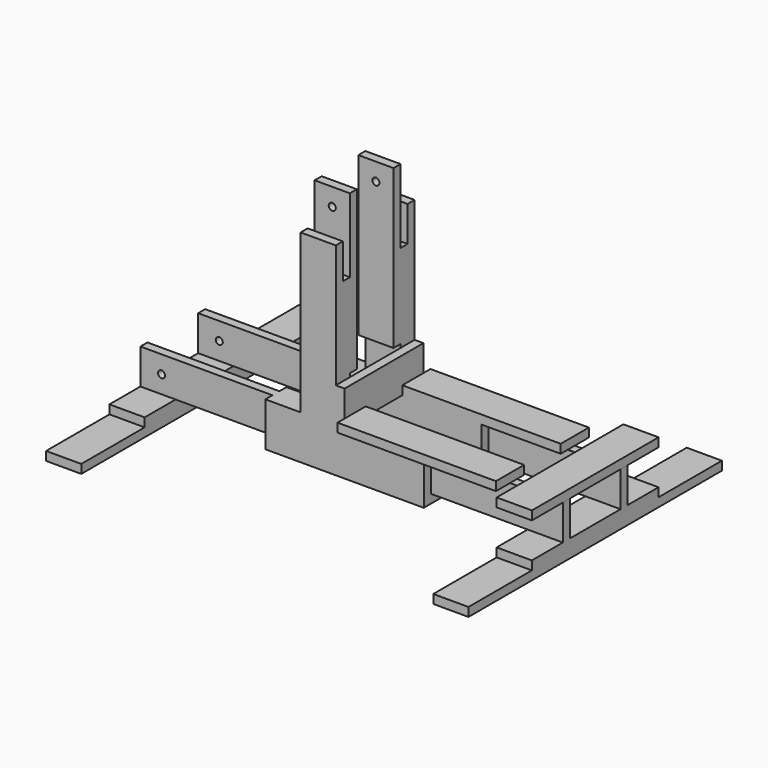
from build123d import *

# Parameters (mm, degrees)
F0_W      = 304.8
F0_H      = 25.4
F1_DEPTH  = 6.35
F2_W      = 114.3
F2_H      = 25.4
F3_DEPTH  = 6.35
F4_W      = 114.3
F4_H      = 25.4
F5_DEPTH  = 6.35
F7_D      = 5.08
F8_W      = 114.3
F8_H      = 19.05
F9_DEPTH  = 6.35
F10_W     = 25.4
F10_H     = 57.15
F11_DEPTH = 6.35
F12_W     = 25.4
F12_H     = 114.3
F13_DEPTH = 6.35
F14_W     = 25.4
F14_H     = 57.15
F15_DEPTH = 6.35
F16_W     = 25.4
F16_H     = 114.3
F17_DEPTH = 6.35
F18_W     = 25.4
F18_H     = 57.15
F19_DEPTH = 6.35
F20_W     = 6.35
F20_H     = 57.15
F21_DEPTH = 25.4
F22_W     = 114.3
F22_H     = 25.4
F23_DEPTH = 6.35
F24_W     = 25.4
F24_H     = 6.35
F25_DEPTH = 88.9
F26_W     = 25.4
F26_H     = 6.35
F27_DEPTH = 114.3
F28_W     = 25.4
F28_H     = 114.3
F29_DEPTH = 6.35
F31_D     = 5.08


with BuildPart() as f1:
    # F0 (on Front) → F1 (new body)
    with BuildSketch(Plane.XZ):
        with Locations((9.459311, -15.122586)):
            Rectangle(F0_W, F0_H)
    extrude(amount=F1_DEPTH)

    # F2 (on face) → F3 (join)
    with BuildSketch(Plane.XZ.offset(6.35)):
        with Locations((9.459311, -15.122586)):
            Rectangle(F2_W, F2_H)
    extrude(amount=F3_DEPTH)

    # F4 (on face) → F5 (join)
    with BuildSketch(Plane(origin=(0, 0, 0), x_dir=(-1, 0, 0), z_dir=(0, 1, 0))):
        with Locations((-9.459311, -15.122586)):
            Rectangle(F4_W, F4_H)
    extrude(amount=F5_DEPTH)

    # F7 (through all)
    with Locations(Plane.XZ.offset(6.35)):
        with Locations((-127.700689, -15.122586)):
            Hole(F7_D / 2)

    # F8 (on face) → F9 (join)
    with BuildSketch(Plane(origin=(0, 0, -27.822586), x_dir=(1, 0, 0), z_dir=(0, 0, -1))):
        with Locations((9.459311, 3.175)):
            Rectangle(F8_W, F8_H)
    extrude(amount=F9_DEPTH)

    # F10 (on face) → F11 (join)
    with BuildSketch(Plane(origin=(0, 0, -27.822586), x_dir=(1, 0, 0), z_dir=(0, 0, -1))):
        with Locations((-130.240689, 0.635)):
            Rectangle(F10_W, F10_H)
    extrude(amount=F11_DEPTH)

    # F12 (on face) → F13 (join)
    with BuildSketch(Plane(origin=(0, 0, -34.172586), x_dir=(1, 0, 0), z_dir=(0, 0, -1))):
        with Locations((-130.240689, -27.94)):
            Rectangle(F12_W, F12_H)
    extrude(amount=F13_DEPTH)

    # F14 (on face) → F15 (join)
    with BuildSketch(Plane(origin=(0, 0, -27.822586), x_dir=(1, 0, 0), z_dir=(0, 0, -1))):
        with Locations((149.159311, 0.635)):
            Rectangle(F14_W, F14_H)
    extrude(amount=F15_DEPTH)

    # F16 (on face) → F17 (join)
    with BuildSketch(Plane(origin=(0, 0, -34.172586), x_dir=(1, 0, 0), z_dir=(0, 0, -1))):
        with Locations((149.159311, -27.94)):
            Rectangle(F16_W, F16_H)
    extrude(amount=F17_DEPTH)

    # F18 (on face) → F19 (join)
    with BuildSketch(Plane.XY.offset(-2.422586)):
        with Locations((149.190135, -0.635)):
            Rectangle(F18_W, F18_H)
    extrude(amount=F19_DEPTH)

    # F20 (on face) → F21 (join)
    with BuildSketch(Plane.XY.offset(-2.422586)):
        with Locations((6.284311, -22.225)):
            Rectangle(F20_W, F20_H)
    extrude(amount=F21_DEPTH)

    # F22 (on face) → F23 (join)
    with BuildSketch(Plane.XY.offset(-2.422586)):
        with Locations((66.609311, 0)):
            Rectangle(F22_W, F22_H)
    extrude(amount=F23_DEPTH)

    # F24 (on face) → F25 (join)
    with BuildSketch(Plane.XY.offset(-2.422586)):
        with Locations((-9.590689, -3.175)):
            Rectangle(F24_W, F24_H)
    extrude(amount=F25_DEPTH)

    # F26 (on face) → F27 (join)
    with BuildSketch(Plane.XY.offset(-2.422586)):
        with Locations((-9.590689, 3.175)):
            Rectangle(F26_W, F26_H)
    extrude(amount=F27_DEPTH)

    # F28 (on face) → F29 (join)
    with BuildSketch(Plane.XZ.offset(6.35)):
        with Locations((-9.590689, 82.667414)):
            Rectangle(F28_W, F28_H)
    extrude(amount=F29_DEPTH)

    # F31 (through all)
    with Locations(Plane(origin=(0, -6.35, 0), x_dir=(-1, 0, 0), z_dir=(0, 1, 0))):
        with Locations((9.590689, 127.117414)):
            Hole(F31_D / 2)

    # F32: F1 across face


with BuildPart() as f1_1:
    add(f1.part)
    add(f1.part.mirror(Plane(origin=(-130.240689, -29.21, -34.172586), x_dir=(1, 0, 0), z_dir=(0, -1, 0))))


solid = f1_1.part
